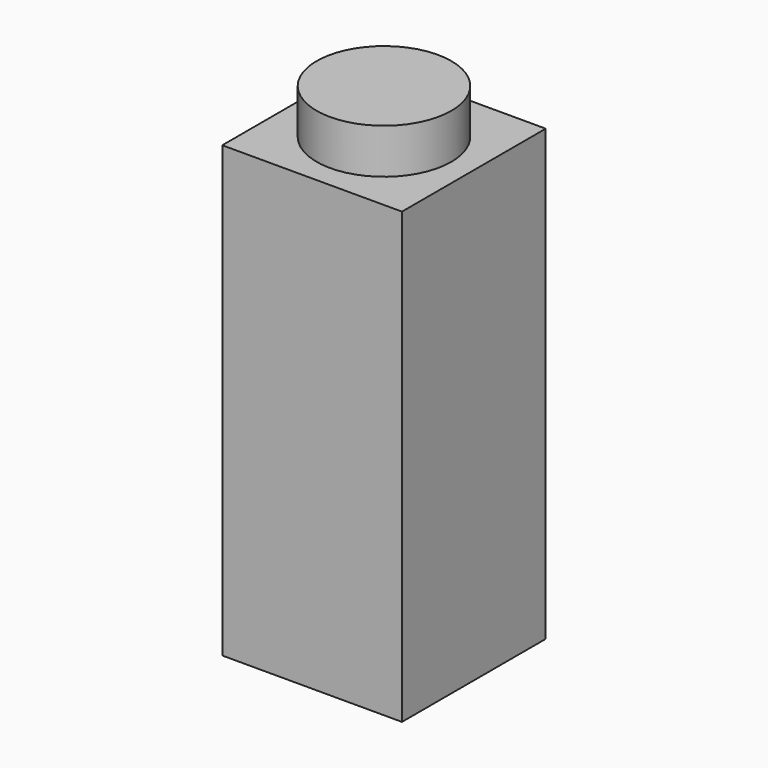
from build123d import *

# Parameters (mm, degrees)
F0_W     = 40
F0_H     = 40
F0_R     = 15
F1_DEPTH = 100
F2_R     = 15
F3_DEPTH = 110


with BuildPart() as f1:
    # F0 (on Top) → F1 (new body)
    with BuildSketch(Plane.XY):
        Rectangle(F0_W, F0_H)
        Circle(F0_R, mode=Mode.SUBTRACT)
    extrude(amount=F1_DEPTH)


with BuildPart() as f3:
    # F2 (on Top) → F3 (new body)
    with BuildSketch(Plane.XY):
        Circle(F2_R)
    extrude(amount=F3_DEPTH)


solid = Compound([f1.part, f3.part])
